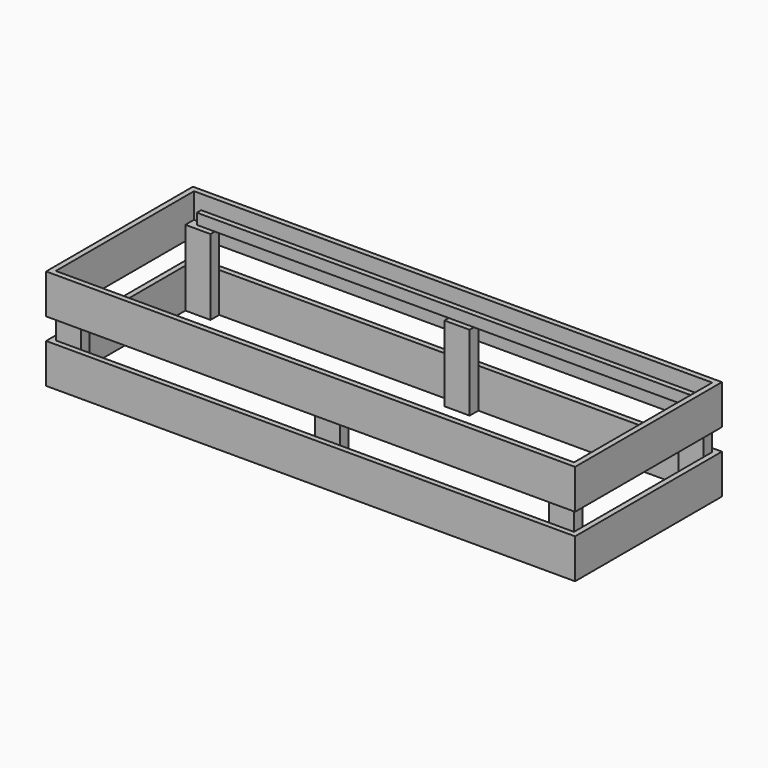
from build123d import *

# Parameters (mm, degrees)
F0_W      = 1866.9
F0_H      = 647.7
F1_DEPTH  = 355.6
F2_T      = -19.05
F3_W      = 1778
F3_H      = 38.1
F4_DEPTH  = 19.05
F5_W      = 1778
F5_H      = 38.1
F6_DEPTH  = 19.05
F7_W      = 1866.9
F7_H      = 76.2
F8_DEPTH  = 647.701
F9_W      = 88.9
F9_H      = 38.1
F10_DEPTH = 266.7


with BuildPart() as f1:
    # F0 (on Top) → F1 (new body)
    with BuildSketch(Plane.XY):
        Rectangle(F0_W, F0_H)
    extrude(amount=F1_DEPTH)

    # F2
    f2_openings = [f1.faces().sort_by_distance(p)[0] for p in [
        (0, 0, 355.6),
        (0, 0, 0),
    ]]
    offset(amount=F2_T, openings=f2_openings)

    # F5 (on face) → F6 (join)
    with BuildSketch(Plane(origin=(0, -304.8, 0), x_dir=(-1, 0, 0), z_dir=(0, 1, 0))):
        with Locations((0, 285.75)):
            Rectangle(F5_W, F5_H)
    extrude(amount=F6_DEPTH)

    # F7 (on face) → F8 (cut, through all)
    with BuildSketch(Plane.XZ.offset(323.85)):
        with Locations((0, 177.8)):
            Rectangle(F7_W, F7_H)
    extrude(amount=-F8_DEPTH, mode=Mode.SUBTRACT)


with BuildPart() as f4:
    # F3 (on face) → F4 (new body)
    with BuildSketch(Plane.XZ.offset(-304.8)):
        with Locations((0, 285.75)):
            Rectangle(F3_W, F3_H)
    extrude(amount=F4_DEPTH)


with BuildPart() as f10:
    # F9 (on face) → F10 (new body, through all)
    with BuildSketch(Plane(origin=(0, 0, 0), x_dir=(1, 0, 0), z_dir=(0, 0, -1))):
        with Locations((-869.95, 285.75)):
            Rectangle(F9_W, F9_H)
        with Locations((-869.95, -285.75)):
            Rectangle(F9_W, F9_H)
        with Locations((44.45, 285.75)):
            Rectangle(F9_W, F9_H)
        with Locations((44.45, -285.75)):
            Rectangle(F9_W, F9_H)
        with Locations((869.95, -285.75)):
            Rectangle(F9_W, F9_H)
        with Locations((869.95, 285.75)):
            Rectangle(F9_W, F9_H)
    extrude(amount=-F10_DEPTH)


solid = Compound([f1.part, f4.part, f10.part])
